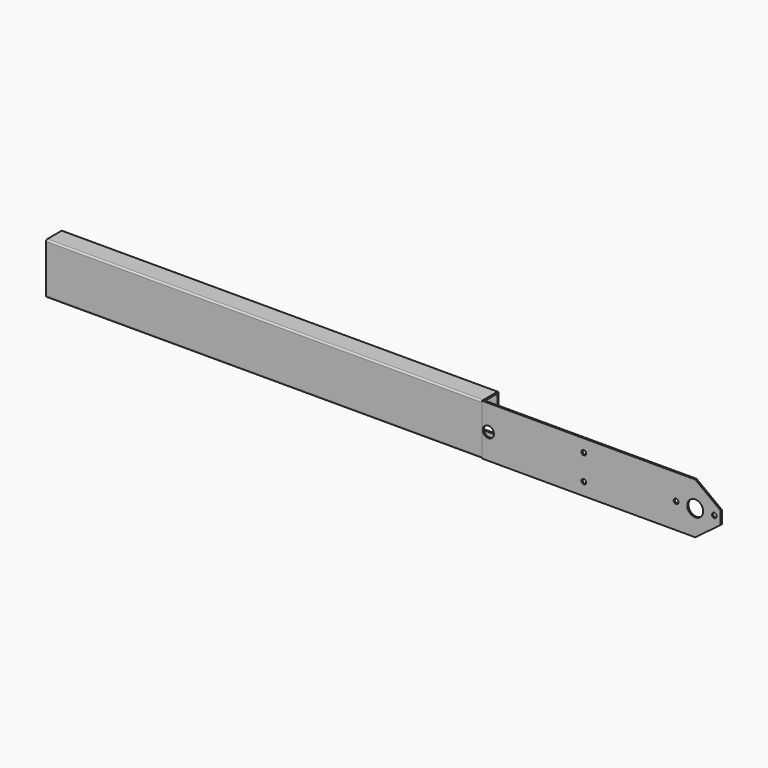
from build123d import *

# Parameters (mm, degrees)
F1_DEPTH = 869.95
F2_R     = 4.7625
F2_R_2   = 11.1125
F2_R_3   = 15.875
F3_DEPTH = 3.175
F5_DEPTH = 3.175


with BuildPart() as f1:
    # F0 (on Right) → F1 (new body)
    with BuildSketch(Plane.YZ):
        with BuildLine():
            Line((38.1, 0), (3.175, 0))
            ThreePointArc((3.175, 0), (0.9299359697, -0.9299359697), (0, -3.175))
            Line((0, -3.175), (0, -98.425))
            ThreePointArc((0, -98.425), (0.9299359697, -100.6700640303), (3.175, -101.6))
            Line((3.175, -101.6), (38.1, -101.6))
            ThreePointArc((38.1, -101.6), (40.3450640303, -100.6700640303), (41.275, -98.425))
            Line((41.275, -98.425), (41.275, -76.2))
            Line((41.275, -76.2), (38.1, -76.2))
            Line((38.1, -76.2), (38.1, -98.425))
            Line((38.1, -98.425), (3.175, -98.425))
            Line((3.175, -98.425), (3.175, -3.175))
            Line((3.175, -3.175), (38.1, -3.175))
            Line((38.1, -3.175), (38.1, -25.4))
            Line((38.1, -25.4), (41.275, -25.4))
            Line((41.275, -25.4), (41.275, -3.175))
            ThreePointArc((41.275, -3.175), (40.3450640303, -0.9299359697), (38.1, 0))
        make_face()
    extrude(amount=F1_DEPTH)


with BuildPart() as f3:
    # F2 (on face) → F3 (new body)
    with BuildSketch(Plane.XZ):
        Polygon((1346.2, 0), (869.95, 0), (869.95, -3.175), (869.95, -98.425), (869.95, -101.6), (1346.2, -101.6), align=None)
        with Locations((1073.15, -76.2)):
            Circle(F2_R, mode=Mode.SUBTRACT)
        with Locations((882.65, -50.8)):
            Circle(F2_R_2, mode=Mode.SUBTRACT)
        with Locations((1257.3, -50.8)):
            Circle(F2_R, mode=Mode.SUBTRACT)
        with Locations((1295.4, -50.8)):
            Circle(F2_R_3, mode=Mode.SUBTRACT)
        with Locations((1333.5, -50.8)):
            Circle(F2_R, mode=Mode.SUBTRACT)
        with Locations((1073.15, -25.4)):
            Circle(F2_R, mode=Mode.SUBTRACT)
    extrude(amount=-F3_DEPTH)

    # F4 (on face) → F5 (cut, through all)
    with BuildSketch(Plane.XZ):
        Polygon((1295.4, 0), (1346.2, -38.1), (1346.2, 0), align=None)
        Polygon((1346.2, -101.6), (1346.2, -63.5), (1295.4, -101.6), align=None)
    extrude(amount=-F5_DEPTH, mode=Mode.SUBTRACT)


solid = Compound([f1.part, f3.part])
